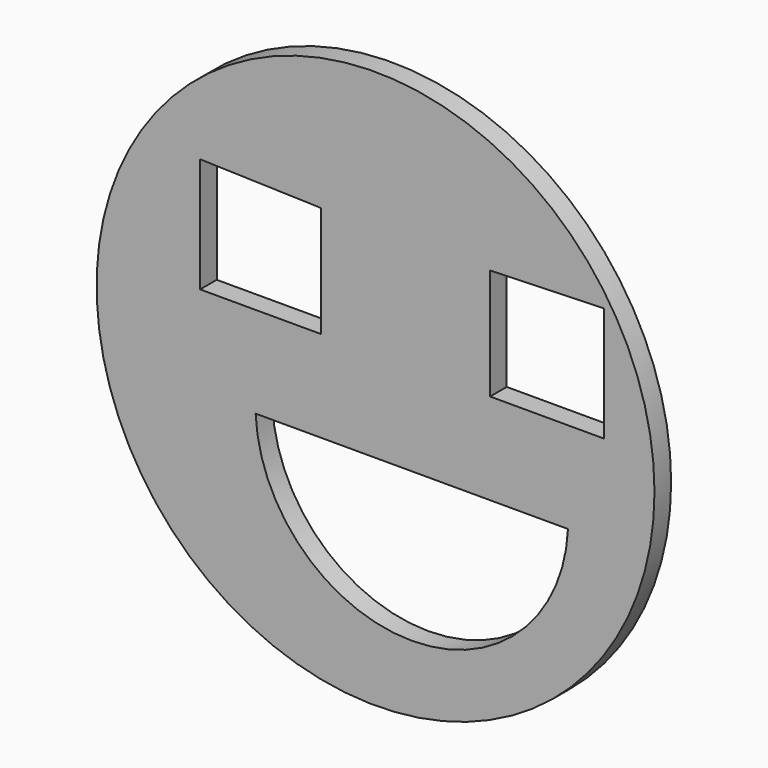
from build123d import *

# Parameters (mm, degrees)
F0_R     = 57.924957
F1_DEPTH = 4.318


with BuildPart() as f1:
    # F0 (on Front) → F1 (new body)
    with BuildSketch(Plane.XZ):
        with Locations((-8.735122, 17.191464)):
            Circle(F0_R)
        with BuildLine():
            ThreePointArc((31.223414, 4.553415), (-1.208049, -26.427396), (-33.639513, 4.553415))
            Line((-33.639513, 4.553415), (31.223414, 4.553415))
        make_face(mode=Mode.SUBTRACT)
        Polygon((-45.162439, 23.510488), (-45.162439, 47.299758), (-20.072196, 46.556342), (-20.072196, 23.510488), align=None, mode=Mode.SUBTRACT)
        Polygon((15.054147, 23.510488), (15.054147, 46.556342), (38.657561, 47.299758), (38.657561, 23.510488), align=None, mode=Mode.SUBTRACT)
    extrude(amount=F1_DEPTH)


solid = f1.part
